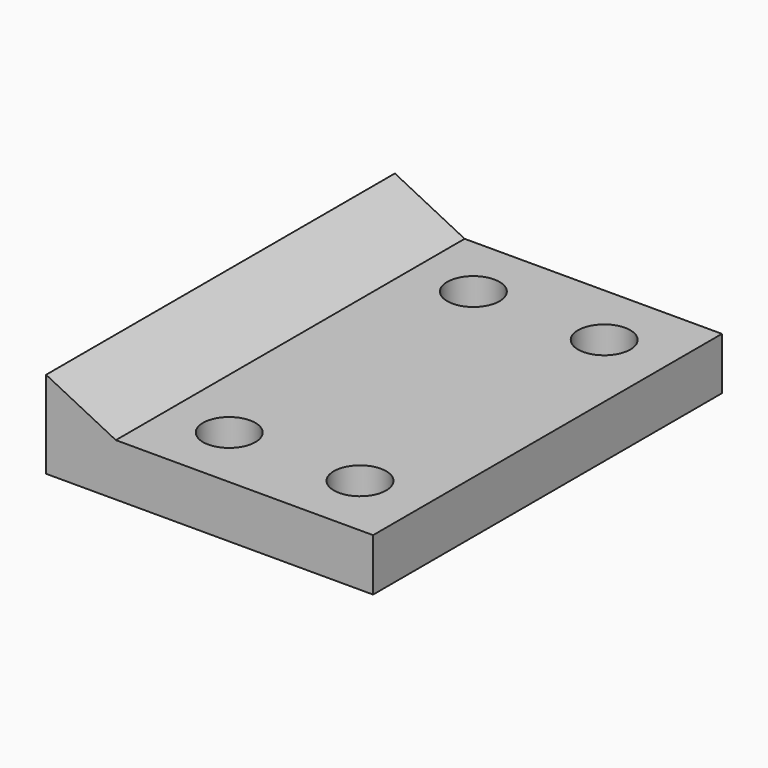
from build123d import *

# Parameters (mm, degrees)
F0_W     = 75
F0_H     = 100
F1_DEPTH = 12
F4_DEPTH = 100
F6_D     = 12
F6_DEPTH = 12


with BuildPart() as f1:
    # F0 (on Top) → F1 (new body)
    with BuildSketch(Plane.XY):
        with Locations((37.5, 50)):
            Rectangle(F0_W, F0_H)
    extrude(amount=F1_DEPTH)

    # F3 (on face) → F4 (join)
    with BuildSketch(Plane.XZ):
        Polygon((0, 20), (0, 12), (16, 12), align=None)
    extrude(amount=-F4_DEPTH)

    # F6
    with Locations(Plane.XY.offset(12)):
        with Locations((30, 15), (60, 15), (60, 85), (30, 85)):
            Hole(F6_D / 2, depth=F6_DEPTH)


solid = f1.part
